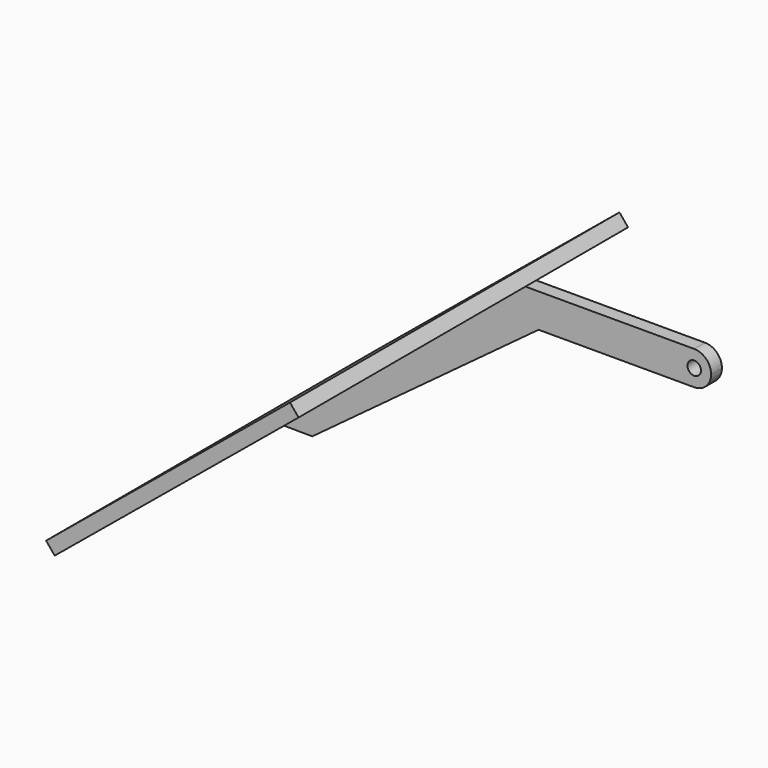
from build123d import *

# Parameters (mm, degrees)
F0_R     = 1
F1_DEPTH = 2
F2_W     = 46.8014790542
F2_H     = 17
F2_H_2   = 2
F2_H_3   = 42
F3_DEPTH = 2


with BuildPart() as f1:
    # F0 (on Front) → F1 (new body)
    with BuildSketch(Plane.XZ):
        with BuildLine():
            ThreePointArc((0, -2.5), (-2.5, 0), (0, 2.5))
            Line((0, 2.5), (-25, 2.5))
            Line((-25, 2.5), (-61.1211777337, -27.2596868397))
            Line((-61.1211777337, -27.2596868397), (-56.5739951013, -27.3005926817))
            Line((-56.5739951013, -27.3005926817), (-23.0573490262, -2.5))
            Line((-23.0573490262, -2.5), (0, -2.5))
        make_face()
        with BuildLine():
            ThreePointArc((0, -2.5), (1.767766953, -1.767766953), (2.5, 0))
            ThreePointArc((2.5, 0), (1.767766953, 1.767766953), (0, 2.5))
            ThreePointArc((0, 2.5), (-2.5, 0), (0, -2.5))
        make_face()
        Circle(F0_R, mode=Mode.SUBTRACT)
    extrude(amount=F1_DEPTH)

    # F2 (on face) → F3 (join)
    with BuildSketch(Plane(origin=(-11.3351925365, 0, 13.7582262361), x_dir=(0.7717956454, 0, 0.6358706486), z_dir=(-0.6358706486, 0, 0.7717956454))):
        with Locations((-41.1059540414, 8.5)):
            Rectangle(F2_W, F2_H)
        with Locations((-41.1059540414, -1)):
            Rectangle(F2_W, F2_H_2)
        with Locations((-41.1059540414, -23)):
            Rectangle(F2_W, F2_H_3)
    extrude(amount=F3_DEPTH)


solid = f1.part
